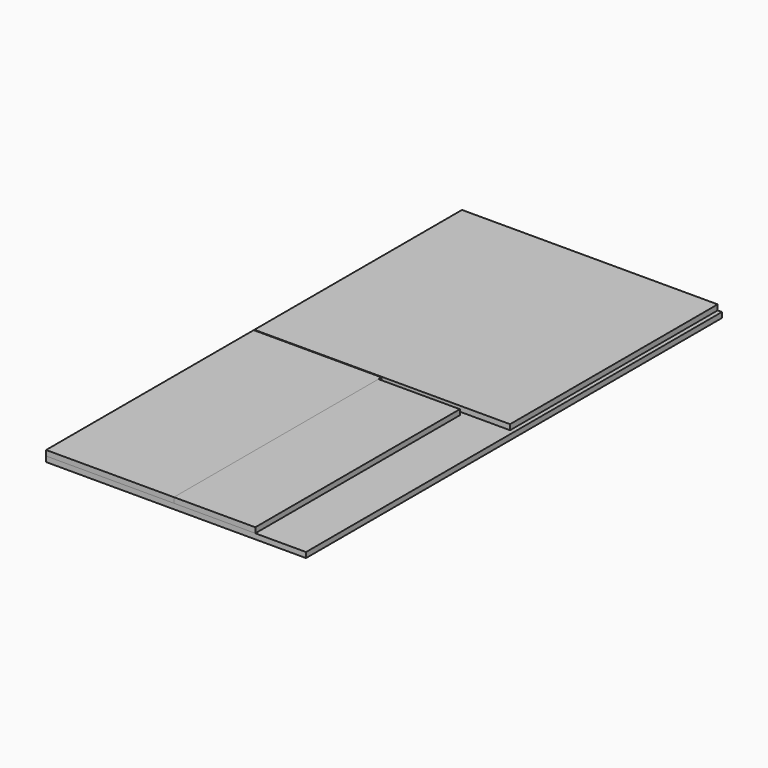
from build123d import *

# Parameters (mm, degrees)
F0_W     = 600
F0_H     = 1218
F1_DEPTH = 25
F2_W     = 1220
F2_H     = 2440
F3_DEPTH = 25
F4_W     = 1200
F4_H     = 1218
F5_DEPTH = 25
F6_W     = 382
F6_H     = 1200
F7_DEPTH = 25


with BuildPart() as f1:
    # F0 (on Top) → F1 (new body)
    with BuildSketch(Plane.XY):
        with Locations((300, 609)):
            Rectangle(F0_W, F0_H)
    extrude(amount=F1_DEPTH)


with BuildPart() as f3:
    # F2 (on face) → F3 (new body)
    with BuildSketch(Plane(origin=(0, 0, 0), x_dir=(1, 0, 0), z_dir=(0, 0, -1))):
        with Locations((610, -1220)):
            Rectangle(F2_W, F2_H)
    extrude(amount=F3_DEPTH)


with BuildPart() as f5:
    # F4 (on face) → F5 (new body)
    with BuildSketch(Plane.XY):
        with Locations((600, 1831)):
            Rectangle(F4_W, F4_H)
    extrude(amount=F5_DEPTH)


with BuildPart() as f7:
    # F6 (on face) → F7 (new body)
    with BuildSketch(Plane.XY):
        with Locations((791, 600)):
            Rectangle(F6_W, F6_H)
    extrude(amount=F7_DEPTH)


solid = Compound([f1.part, f3.part, f5.part, f7.part])
